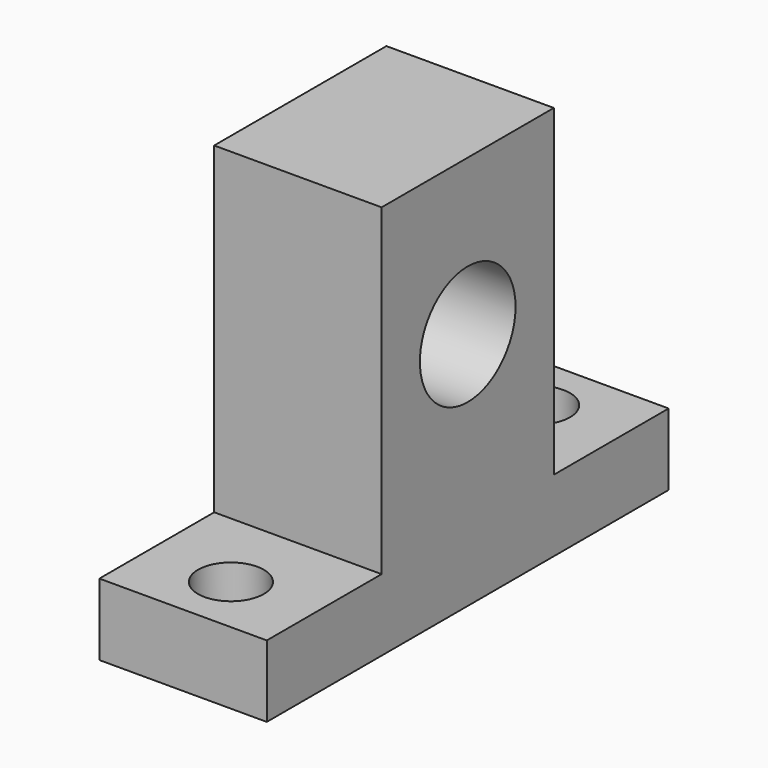
from build123d import *

# Parameters (mm, degrees)
F0_R           = 5
F1_DEPTH       = 14
F3_D           = 5.5
F3_CSINK_D     = 6.5
F3_CSINK_ANGLE = 90


with BuildPart() as f1:
    # F0 (on Right) → F1 (new body)
    with BuildSketch(Plane.YZ):
        Polygon((-21, -20), (0, -20), (21, -20), (21, -14), (9, -14), (9, 13), (0, 13), (-9, 13), (-9, -14), (-21, -14), align=None)
        Circle(F0_R, mode=Mode.SUBTRACT)
    extrude(amount=F1_DEPTH)

    # F3 (through all)
    with Locations(Plane(origin=(0, 0, -20), x_dir=(1, 0, 0), z_dir=(0, 0, -1))):
        with Locations((7, -16), (7, 16)):
            CounterSinkHole(F3_D / 2, F3_CSINK_D / 2, counter_sink_angle=F3_CSINK_ANGLE)


solid = f1.part
